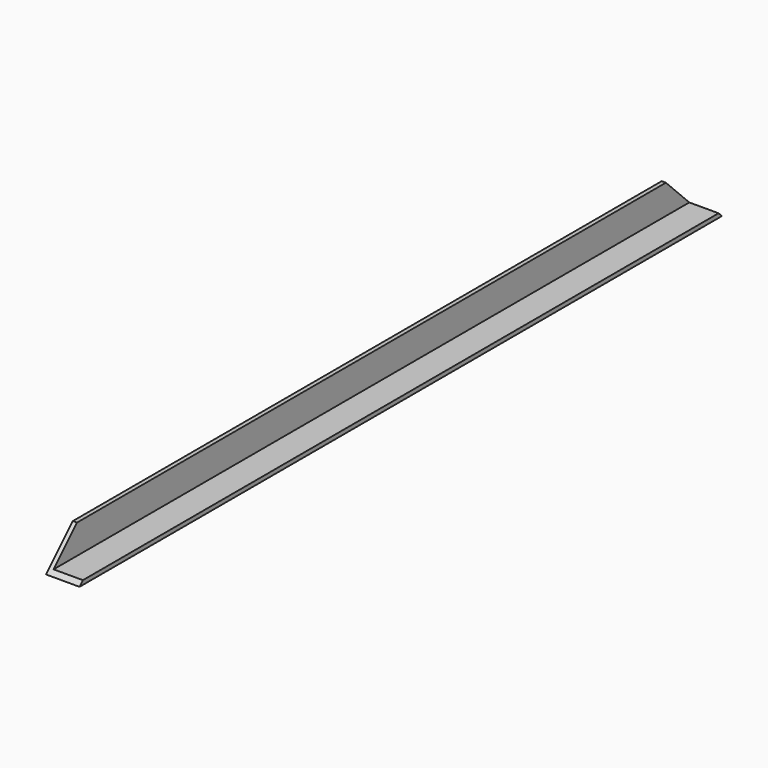
from build123d import *

# Parameters (mm, degrees)
F1_DEPTH = 914.4
F3_DEPTH = 38.101


with BuildPart() as f1:
    # F0 (on Front) → F1 (new body)
    with BuildSketch(Plane.XZ):
        Polygon((0, 38.1), (0, 0), (38.1, 0), (38.1, 4.7625), (4.7625, 4.7625), (4.7625, 38.1), align=None)
    extrude(amount=-F1_DEPTH)

    # F2 (on face) → F3 (cut, through all)
    with BuildSketch(Plane(origin=(0, 0, 0), x_dir=(0, -1, 0), z_dir=(-1, 0, 0))):
        Polygon((0, 38.1), (-38.1, 38.1), (0, 0), align=None)
        Polygon((-876.3, 38.1), (-914.4, 38.1), (-914.4, 0), align=None)
    extrude(amount=-F3_DEPTH, mode=Mode.SUBTRACT)


solid = f1.part
